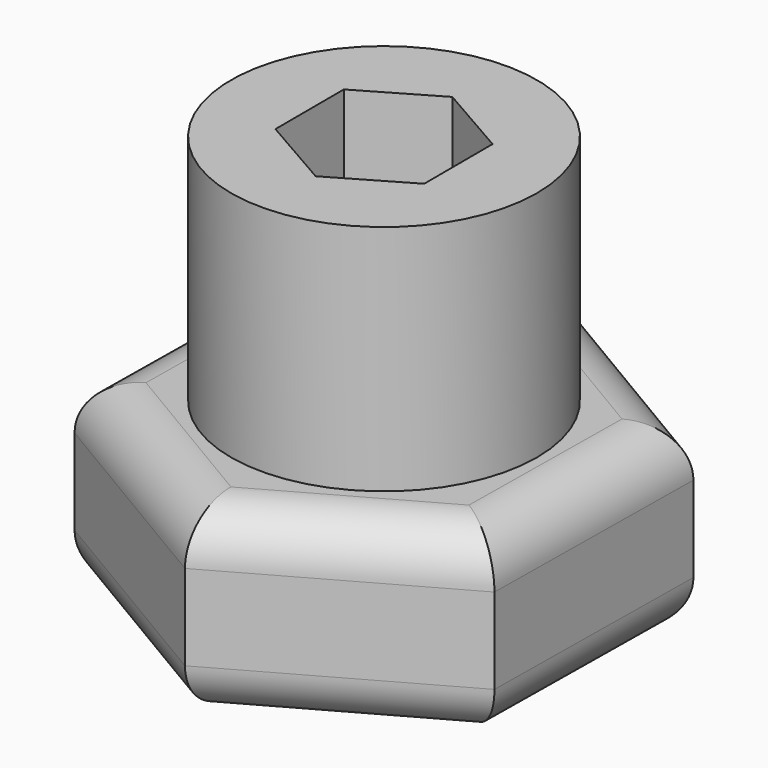
from build123d import *

# Parameters (mm, degrees)
F0_R     = 6.25
F1_DEPTH = 9.5
F3_DEPTH = 7.5
F4_R     = 2


with BuildPart() as f1:
    # F0 (on Top) → F1 (new body)
    with BuildSketch(Plane.XY):
        Circle(F0_R)
        Polygon((-3.035395013, 1.7425416164), (-0.0086121995, 3.5), (3.0267828135, 1.7574583836), (3.035395013, -1.7425416164), (0.0086121995, -3.5), (-3.0267828135, -1.7574583836), align=None, mode=Mode.SUBTRACT)
    extrude(amount=F1_DEPTH)


with BuildPart() as f3:
    # F2 (on Top) → F3 (new body)
    with BuildSketch(Plane.XY):
        Polygon((8.7234992459, 4.8904560863), (0.1264904161, 10), (-8.5970088298, 5.1095439137), (-8.7234992459, -4.8904560863), (-0.1264904161, -10), (8.5970088298, -5.1095439137), align=None)
    extrude(amount=-F3_DEPTH)

    # F4
    f4_edges = [f3.edges().sort_by_distance(p)[0] for p in [
        (4.235259, -7.554772, -7.5),
        (8.660254, -0.109544, -7.5),
        (-4.235259, 7.554772, -7.5),
        (4.424995, 7.445228, -7.5),
        (-8.660254, 0.109544, -7.5),
        (-4.424995, -7.445228, -7.5),
        (-8.660254, 0.109544, 0),
        (-4.235259, 7.554772, 0),
        (-4.424995, -7.445228, 0),
        (4.235259, -7.554772, 0),
        (4.424995, 7.445228, 0),
        (8.660254, -0.109544, 0),
    ]]
    fillet(f4_edges, radius=F4_R)


solid = Compound([f1.part, f3.part])
